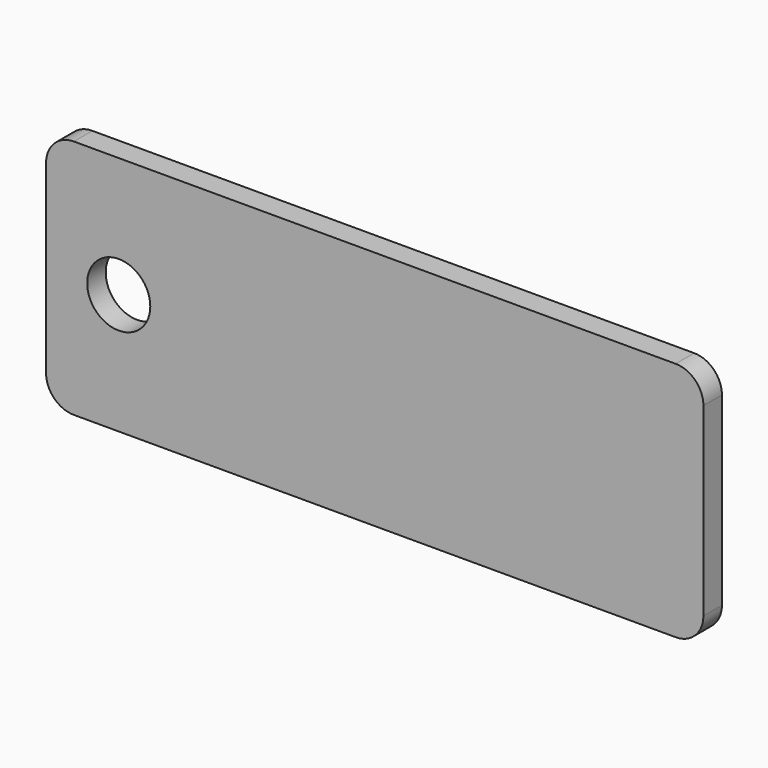
from build123d import *

# Parameters (mm, degrees)
F0_R     = 3.40703
F1_DEPTH = 2.5


with BuildPart() as f1:
    # F0 (on Front) → F1 (new body)
    with BuildSketch(Plane.XZ):
        with BuildLine():
            Line((60.151453, 13), (-4.848547, 13))
            ThreePointArc((-4.848547, 13), (-6.969868, 12.12132), (-7.848547, 10))
            Line((-7.848547, 10), (-7.848547, -10))
            ThreePointArc((-7.848547, -10), (-6.969868, -12.12132), (-4.848547, -13))
            Line((-4.848547, -13), (60.151453, -13))
            ThreePointArc((60.151453, -13), (62.272773, -12.12132), (63.151453, -10))
            Line((63.151453, -10), (63.151453, 10))
            ThreePointArc((63.151453, 10), (62.272773, 12.12132), (60.151453, 13))
        make_face()
        Circle(F0_R, mode=Mode.SUBTRACT)
        with BuildLine():
            Line((60.151453, 13), (-4.848547, 13))
            ThreePointArc((-4.848547, 13), (-6.969868, 12.12132), (-7.848547, 10))
            Line((-7.848547, 10), (-7.848547, -10))
            ThreePointArc((-7.848547, -10), (-6.969868, -12.12132), (-4.848547, -13))
            Line((-4.848547, -13), (60.151453, -13))
            ThreePointArc((60.151453, -13), (62.272773, -12.12132), (63.151453, -10))
            Line((63.151453, -10), (63.151453, 10))
            ThreePointArc((63.151453, 10), (62.272773, 12.12132), (60.151453, 13))
        make_face()
        Circle(F0_R, mode=Mode.SUBTRACT)
    extrude(amount=F1_DEPTH)


solid = f1.part
